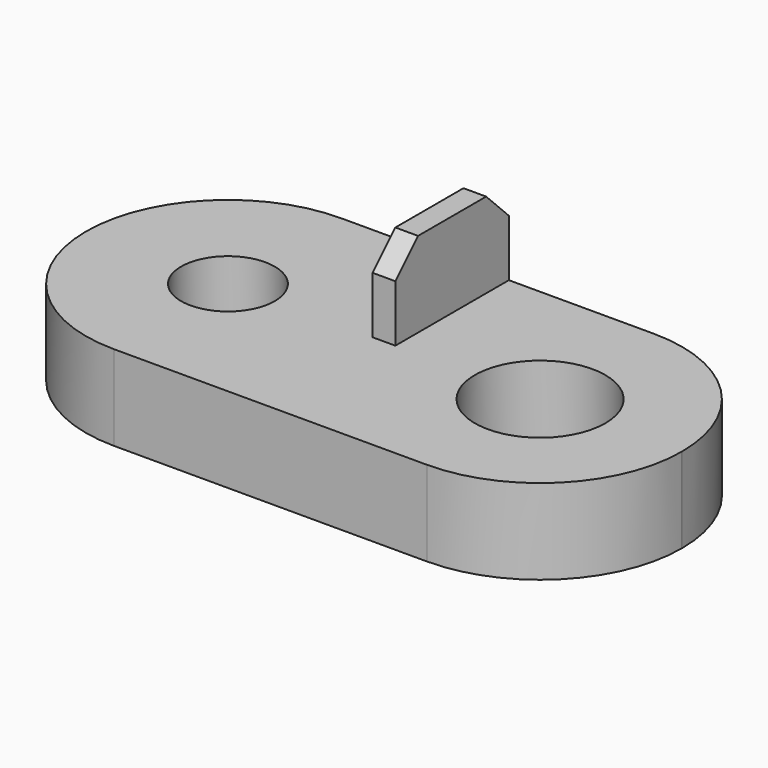
from build123d import *

# Parameters (mm, degrees)
BOX002_W          = 0.8
BOX002_H          = 5
BOX002_DEPTH      = 3
CHAMFER001_SIZE   = 1
CYLINDER001_R     = 2.3
CYLINDER001_DEPTH = 10
CYLINDER_R        = 1.65
CYLINDER_DEPTH    = 10
BOX001_W          = 21
BOX001_H          = 10
BOX001_DEPTH      = 3
FILLET_R          = 4.99


with BuildPart() as chamfer001:
    # Box002 → Box002 (new body)
    with BuildSketch(Plane(origin=(-0.9, -55, 0), x_dir=(1, 0, 0), z_dir=(0, 0, 1))):
        with Locations((0.4, 2.5)):
            Rectangle(BOX002_W, BOX002_H)
    extrude(amount=BOX002_DEPTH)

    # Chamfer001
    chamfer001_edges = [chamfer001.edges().sort_by_distance(p)[0] for p in [
        (-0.5, -55, 3),
        (-0.5, -50, 3),
    ]]
    chamfer(chamfer001_edges, length=CHAMFER001_SIZE)


with BuildPart() as cylinder001:
    # Cylinder001 → Cylinder001 (new body)
    with BuildSketch(Plane(origin=(5, -55, -3), x_dir=(1, 0, 0), z_dir=(0, 0, 1))):
        Circle(CYLINDER001_R)
    extrude(amount=CYLINDER001_DEPTH)


with BuildPart() as fusion001:
    # Cylinder → Cylinder (new body)
    with BuildSketch(Plane(origin=(-6, -55, -3), x_dir=(1, 0, 0), z_dir=(0, 0, 1))):
        Circle(CYLINDER_R)
    extrude(amount=CYLINDER_DEPTH)

    # Fusion001: union Cylinder001
    add(cylinder001.part)


with BuildPart() as connector:
    # Box001 → Box001 (new body)
    with BuildSketch(Plane(origin=(-11, -60, -3), x_dir=(1, 0, 0), z_dir=(0, 0, 1))):
        with Locations((10.5, 5)):
            Rectangle(BOX001_W, BOX001_H)
    extrude(amount=BOX001_DEPTH)

    # Fillet
    fillet_edges = [connector.edges().sort_by_distance(p)[0] for p in [
        (-11, -60, -1.5),
        (-11, -50, -1.5),
        (10, -60, -1.5),
        (10, -50, -1.5),
    ]]
    fillet(fillet_edges, radius=FILLET_R)

    # Cut001: cut Fusion001
    add(fusion001.part, mode=Mode.SUBTRACT)

    # Fusion002: union Chamfer001
    add(chamfer001.part)


solid = connector.part
